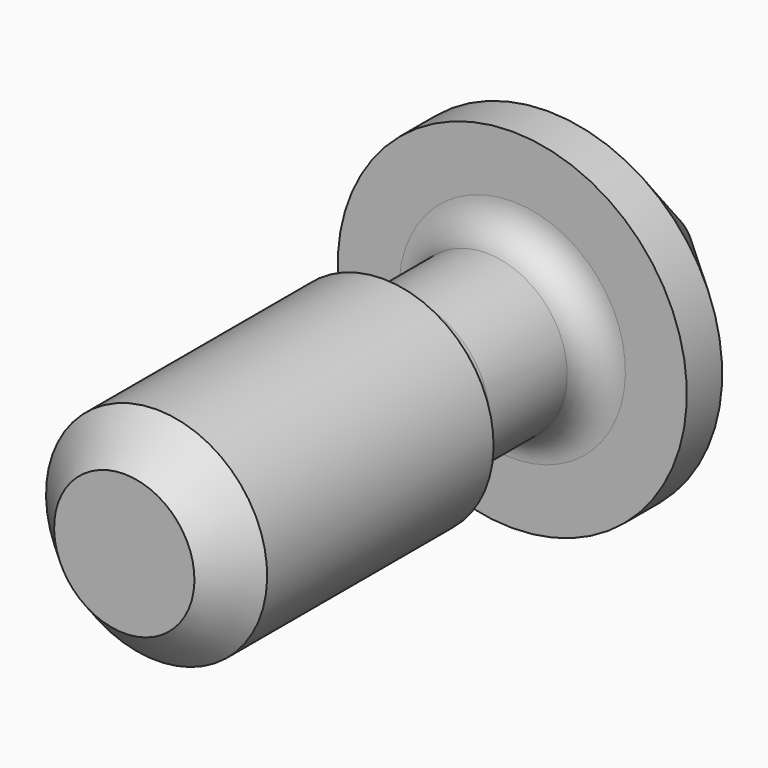
from build123d import *


with BuildPart() as f1:
    # F0 (on Right) → F1 (revolve)
    with BuildSketch(Plane.YZ):
        with BuildLine():
            Line((3.8450945151, 3.429), (2.9765625, 3.429))
            Line((2.9765625, 3.429), (2.9765625, 2.2225))
            ThreePointArc((2.9765625, 2.2225), (2.7905753061, 1.7734871939), (2.3415625, 1.5875))
            Line((2.3415625, 1.5875), (0.4365625, 1.5875))
            ThreePointArc((0.4365625, 1.5875), (0.0058845461, 1.755872204), (-0.1964022384, 2.1717))
            Line((-0.1964022384, 2.1717), (-5.7546875, 2.1717))
            Line((-5.7546875, 2.1717), (-6.5484375, 1.37795))
            Line((-6.5484375, 1.37795), (-6.5484375, 0))
            Line((-6.5484375, 0), (6.5484375, 0))
            Line((6.5484375, 0), (6.9453125, 0))
            ThreePointArc((6.9453125, 0), (6.8848918789, 0.3037549744), (6.7128285076, 0.5612660076))
            Line((6.7128285076, 0.5612660076), (3.8450945151, 3.429))
        make_face()
    revolve(axis=Axis((0, 0.1984375, 0), (0, 1, 0)))


solid = f1.part
